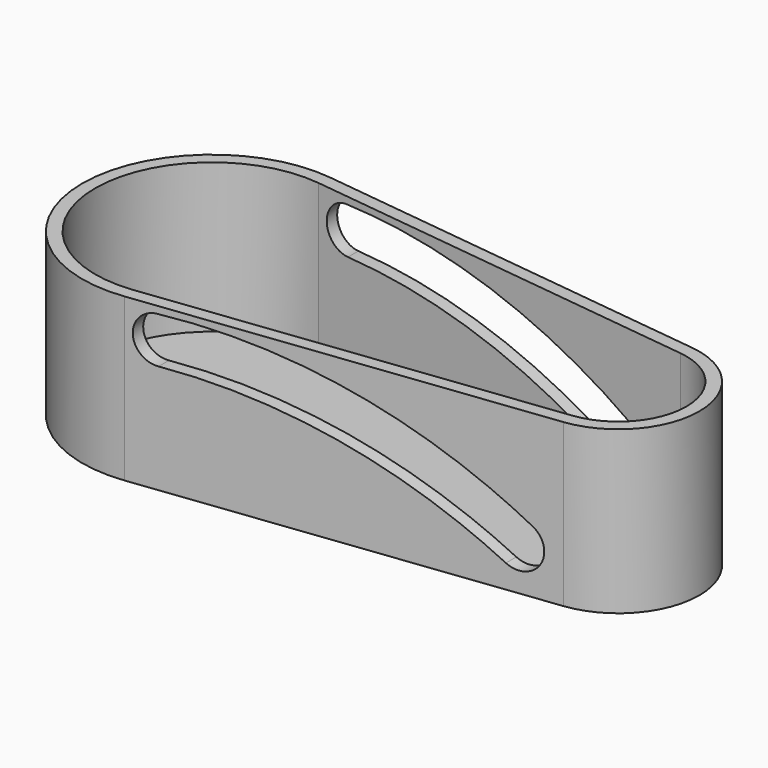
from build123d import *

# Parameters (mm, degrees)
F1_DEPTH = 25
F2_T     = -2
F4_DEPTH = 20.3


with BuildPart() as f1:
    # F0 (on Top) → F1 (new body)
    with BuildSketch(Plane.XY):
        with BuildLine():
            Line((64.2109500094, 12.4102973465), (2.3917296289, 19.8564757543))
            ThreePointArc((2.3917296289, 19.8564757543), (-20, 0), (2.3917296289, -19.8564757543))
            Line((2.3917296289, -19.8564757543), (64.2109500094, -12.4102973465))
            ThreePointArc((64.2109500094, -12.4102973465), (75.2161189914, 0), (64.2109500094, 12.4102973465))
        make_face()
    extrude(amount=F1_DEPTH)

    # F2
    f2_openings = [f1.faces().sort_by_distance(p)[0] for p in [
        (24.189424, 0, 25),
    ]]
    offset(amount=F2_T, openings=f2_openings)

    # F3 (on Front) → F4 (cut, symmetric)
    with BuildSketch(Plane.XZ):
        with BuildLine():
            ThreePointArc((59.8595843924, 9.6312405885), (34.5198825437, 20.8955157603), (6.9537251321, 23.9107024015))
            ThreePointArc((6.9537251321, 23.9107024015), (3.5680113506, 20.244996686), (7.1925410007, 16.8152385285))
            ThreePointArc((7.1925410007, 16.8152385285), (32.5850479445, 13.7268921567), (56.0830972065, 3.6195199423))
            ThreePointArc((56.0830972065, 3.6195199423), (60.9410990793, 4.7598155213), (59.8595843924, 9.6312405885))
        make_face()
    extrude(amount=F4_DEPTH, both=True, mode=Mode.SUBTRACT)


solid = f1.part
